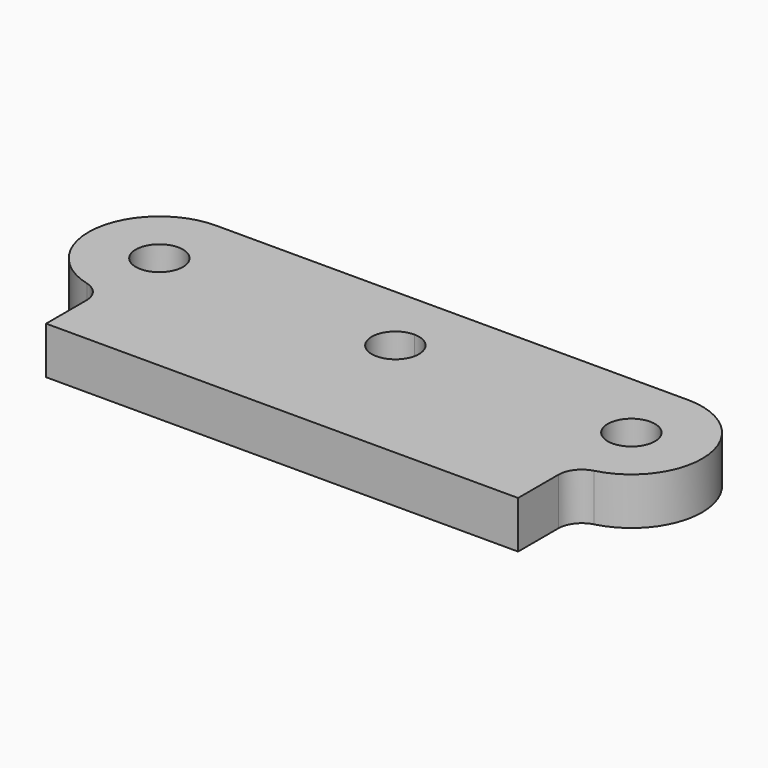
from build123d import *

# Parameters (mm, degrees)
F0_R     = 5
F1_DEPTH = 10


with BuildPart() as f1:
    # F0 (on Top) → F1 (new body)
    with BuildSketch(Plane.XY):
        with BuildLine():
            Line((0, 15), (-50, 15))
            ThreePointArc((-50, 15), (-64.880445, 1.890064), (-53.75, -14.523688))
            ThreePointArc((-53.75, -14.523688), (-51.047153, -16.303055), (-50, -19.364917))
            Line((-50, -19.364917), (-50, -30))
            Line((-50, -30), (0, -30))
            Line((0, -30), (0, -5))
            ThreePointArc((0, -5), (-5, 0), (0, 5))
            Line((0, 5), (0, 15))
        make_face()
        with Locations((-50, 0)):
            Circle(F0_R, mode=Mode.SUBTRACT)
        with BuildLine():
            Line((50, 15), (0, 15))
            Line((0, 15), (0, 5))
            ThreePointArc((0, 5), (3.535534, 3.535534), (5, 0))
            ThreePointArc((5, 0), (3.535534, -3.535534), (0, -5))
            Line((0, -5), (0, -30))
            Line((0, -30), (50, -30))
            Line((50, -30), (50, -19.364917))
            ThreePointArc((50, -19.364917), (51.047153, -16.303055), (53.75, -14.523688))
            ThreePointArc((53.75, -14.523688), (64.880445, 1.890064), (50, 15))
        make_face()
        with BuildLine():
            ThreePointArc((55, 0), (50, -5), (45, 0))
            ThreePointArc((45, 0), (50, 5), (55, 0))
        make_face(mode=Mode.SUBTRACT)
    extrude(amount=F1_DEPTH)


solid = f1.part
